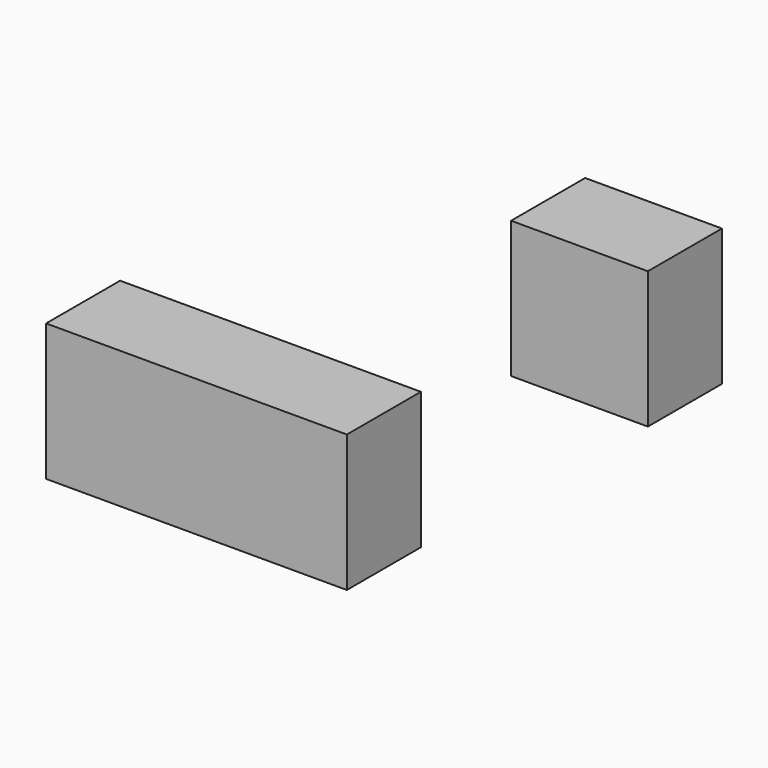
from build123d import *

# Parameters (mm, degrees)
F0_W     = 82.55
F0_H     = 37.573908
F1_DEPTH = 25.4


with BuildPart() as f1:
    # F0 (on Front) → F1 (new body)
    with BuildSketch(Plane.XZ):
        Polygon((86.357945, 85.106038), (86.357945, 56.326063), (86.357945, 47.566941), (123.897101, 47.566941), (123.897101, 85.106038), align=None)
        Rectangle(F0_W, F0_H)
    extrude(amount=F1_DEPTH)


solid = f1.part
